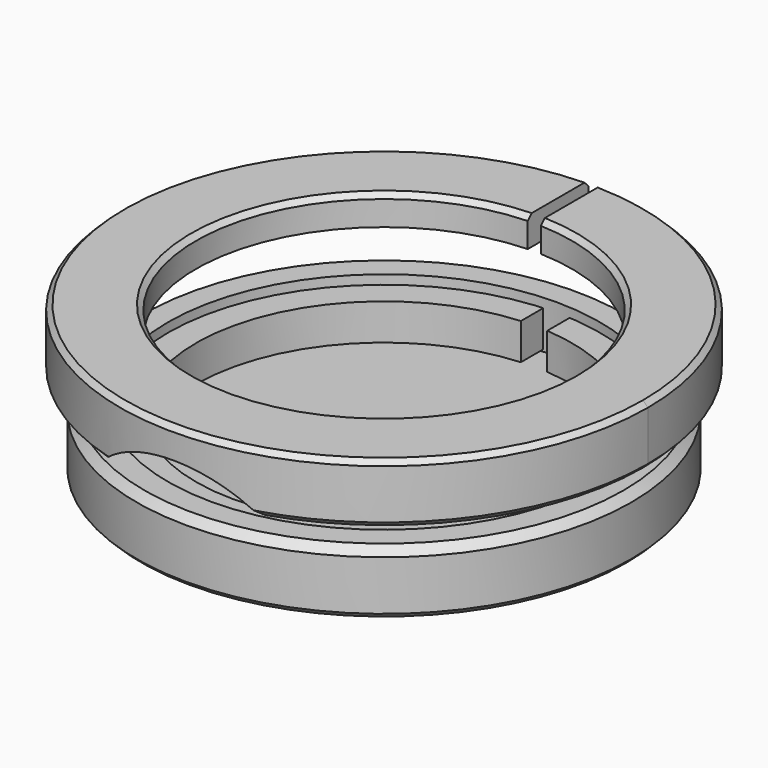
from build123d import *

# Parameters (mm, degrees)
F0_R       = 37.5
F1_DEPTH   = 9.5
F2_R       = 32.75
F3_DEPTH   = 7.5
F4_R       = 28.5
F5_DEPTH   = 25
F6_R       = 32.25
F7_DEPTH   = 0.6
F9_DEPTH   = 5.5
F11_R      = 40
F11_R_2    = 28.5
F12_DEPTH  = 3
F13_R      = 40
F13_R_2    = 36.5
F14_DEPTH  = 6
F15_R      = 32.25
F15_R_2    = 28.5
F16_DEPTH  = 1.5
F17_W      = 2
F17_H      = 16.657679
F18_DEPTH  = 10
F19_SIZE   = 1.2
F19_2_SIZE = 1.2
F20_SIZE   = 0.75
F20_2_SIZE = 0.75
F23_DEPTH  = 88


with BuildPart() as f1:
    # F0 (on Top) → F1 (new body)
    with BuildSketch(Plane.XY):
        Circle(F0_R)
    extrude(amount=F1_DEPTH)

    # F2 (on face) → F3 (cut)
    with BuildSketch(Plane.XY.offset(9.5)):
        Circle(F2_R)
    extrude(amount=-F3_DEPTH, mode=Mode.SUBTRACT)

    # F4 (on face) → F5 (cut)
    with BuildSketch(Plane.XY.offset(2)):
        Circle(F4_R)
    extrude(amount=-F5_DEPTH, mode=Mode.SUBTRACT)

    # F19
    f19_edges = [f1.edges().sort_by_distance(p)[0] for p in [
        (-37.5, 0, 9.5),
    ]]
    chamfer(f19_edges, length=F19_SIZE)

    # F20
    f20_edges = [f1.edges().sort_by_distance(p)[0] for p in [
        (-37.5, 0, 0),
        (-28.5, 0, 0),
    ]]
    chamfer(f20_edges, length=F20_SIZE)


with BuildPart() as f7:
    # F6 (on face) → F7 (new body)
    with BuildSketch(Plane.XY.offset(2)):
        Circle(F6_R)
    extrude(amount=F7_DEPTH)


with BuildPart() as f9:
    # F8 (on face) → F9 (new body)
    with BuildSketch(Plane.XY.offset(2.6)):
        with BuildLine():
            Line((-2, 28.429738), (-2, 32.939338))
            ThreePointArc((-2, 32.939338), (0, -33), (2, 32.939338))
            Line((2, 32.939338), (2, 28.429738))
            ThreePointArc((2, 28.429738), (0, -28.5), (-2, 28.429738))
        make_face()
    extrude(amount=F9_DEPTH)


with BuildPart() as f12:
    # F11 (on offset) → F12 (new body)
    with BuildSketch(Plane.XY.offset(19.5)):
        Circle(F11_R)
        Circle(F11_R_2, mode=Mode.SUBTRACT)
    extrude(amount=F12_DEPTH)

    # F13 (on face) → F14 (join)
    with BuildSketch(Plane(origin=(0, 0, 19.5), x_dir=(1, 0, 0), z_dir=(0, 0, -1))):
        Circle(F13_R)
        Circle(F13_R_2, mode=Mode.SUBTRACT)
    extrude(amount=F14_DEPTH)

    # F15 (on face) → F16 (join)
    with BuildSketch(Plane(origin=(0, 0, 19.5), x_dir=(1, 0, 0), z_dir=(0, 0, -1))):
        Circle(F15_R)
        Circle(F15_R_2, mode=Mode.SUBTRACT)
    extrude(amount=F16_DEPTH)

    # F17 (on face) → F18 (cut)
    with BuildSketch(Plane.XY.offset(22.5)):
        with Locations((0, 33.980249)):
            Rectangle(F17_W, F17_H)
    extrude(amount=-F18_DEPTH, mode=Mode.SUBTRACT)

    # F19#2
    f19_2_edges = [f12.edges().sort_by_distance(p)[0] for p in [
        (-25.453389, -26.160562, 13.5),
    ]]
    chamfer(f19_2_edges, length=F19_2_SIZE)

    # F20#2
    f20_2_edges = [f12.edges().sort_by_distance(p)[0] for p in [
        (-27.92848, -28.635642, 22.5),
        (-19.795833, -20.503049, 22.5),
        (-27.92848, -28.635642, 13.5),
    ]]
    chamfer(f20_2_edges, length=F20_2_SIZE)

    # F22 (on offset) → F23 (cut)
    with BuildSketch(Plane.XZ.offset(-42.9)):
        with BuildLine():
            Line((-14.040557, 11.263337), (14.040557, 11.263337))
            ThreePointArc((14.040557, 11.263337), (0, 18), (-14.040557, 11.263337))
        make_face()
    extrude(amount=F23_DEPTH, mode=Mode.SUBTRACT)


solid = Compound([f1.part, f7.part, f9.part, f12.part])
